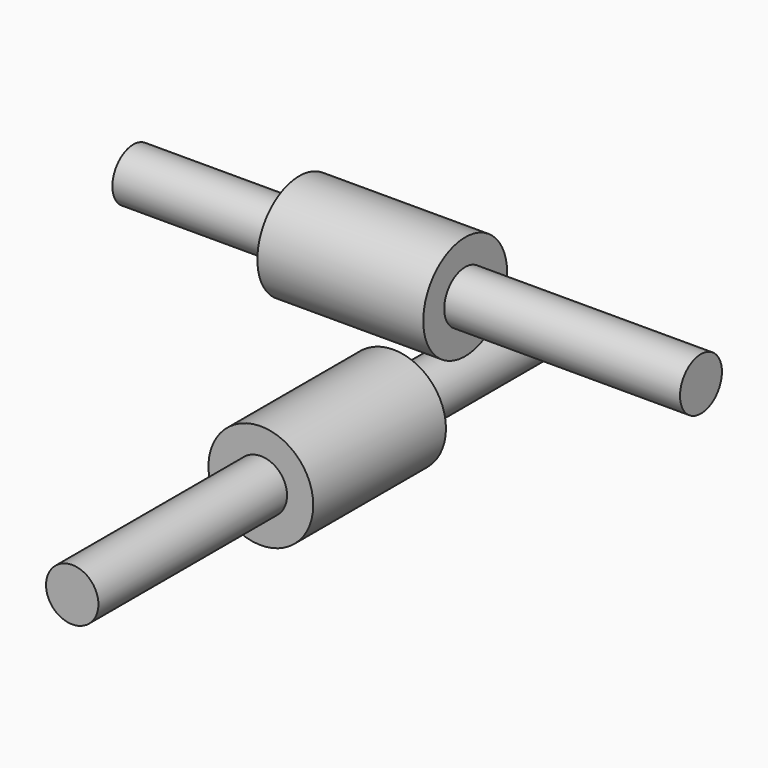
from build123d import *

# Parameters (mm, degrees)
F4_R          = 3
F5_DEPTH      = 40
F5_DEPTH_BACK = 25
F4_R_2        = 6
F6_DEPTH      = 13
F6_DEPTH_BACK = 6
F3_R          = 3
F7_DEPTH      = 40
F7_DEPTH_BACK = 25
F3_R_2        = 6
F8_DEPTH      = 13
F8_DEPTH_BACK = 6


with BuildPart() as f5:
    # F4 (on Right) → F5 (new body, two sides)
    with BuildSketch(Plane.YZ) as f5_sk:
        with Locations((0, 9)):
            Circle(F4_R)
    extrude(amount=F5_DEPTH)
    extrude(f5_sk.sketch, amount=-F5_DEPTH_BACK)

    # F4 (on Right) → F6 (join, two sides)
    with BuildSketch(Plane.YZ) as f6_sk:
        with Locations((0, 9)):
            Circle(F4_R_2)
        with Locations((0, 9)):
            Circle(F4_R, mode=Mode.SUBTRACT)
    extrude(amount=F6_DEPTH)
    extrude(f6_sk.sketch, amount=-F6_DEPTH_BACK)


with BuildPart() as f7:
    # F3 (on Front) → F7 (new body, two sides)
    with BuildSketch(Plane.XZ) as f7_sk:
        with Locations((0, -9)):
            Circle(F3_R)
    extrude(amount=F7_DEPTH)
    extrude(f7_sk.sketch, amount=-F7_DEPTH_BACK)

    # F3 (on Front) → F8 (join, two sides)
    with BuildSketch(Plane.XZ) as f8_sk:
        with Locations((0, -9)):
            Circle(F3_R_2)
        with Locations((0, -9)):
            Circle(F3_R, mode=Mode.SUBTRACT)
    extrude(amount=F8_DEPTH)
    extrude(f8_sk.sketch, amount=-F8_DEPTH_BACK)


solid = Compound([f5.part, f7.part])
